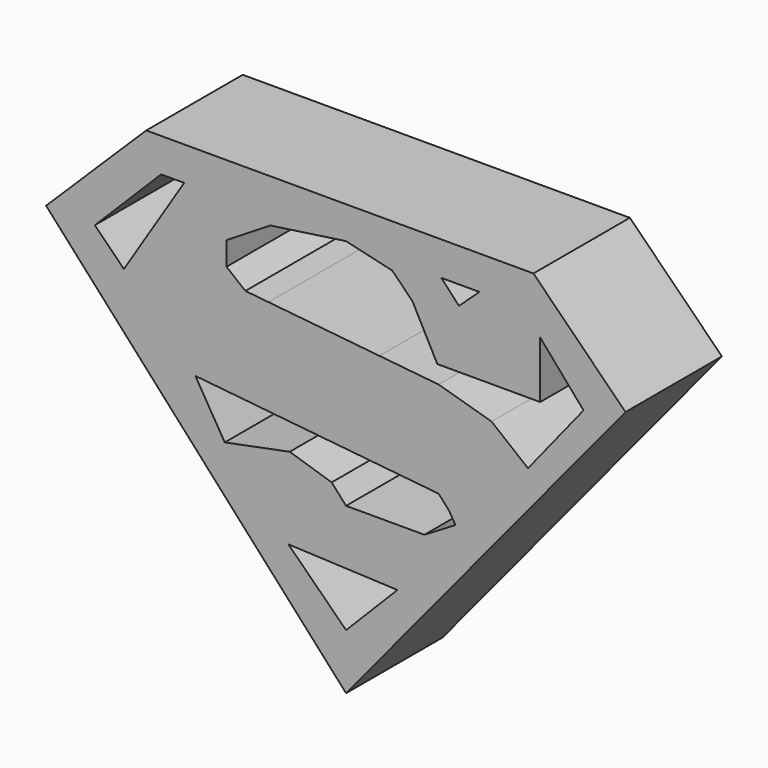
from build123d import *

# Parameters (mm, degrees)
F1_DEPTH = 25.4


with BuildPart() as f1:
    # F0 (on Front) → F1 (new body)
    with BuildSketch(Plane.XZ):
        Polygon((39.478663, 49.774494), (-42.100161, 49.774494), (-63.207971, 28.951926), (0, -40.932029), (58.875032, 30.378129), align=None)
        Polygon((-25.556205, -2.709786), (-31.747603, 7.609214), (19.511815, 2.424546), (21.704745, 0), (23.049638, -2.241488), (16.5084, -6.16623), (0, -6.16623), (-3.038761, -2.806516), (-11.864654, 0), align=None, mode=Mode.SUBTRACT)
        Polygon((0, -29.237164), (-12.149894, -17.257059), (10.827228, -18.256486), align=None, mode=Mode.SUBTRACT)
        Polygon((-52.939307, 28.666684), (-38.962513, 42.643476), (-34.113426, 42.643476), (-46.806633, 22.53401), align=None, mode=Mode.SUBTRACT)
        Polygon((40.904865, 26.38476), (40.904865, 38.364865), (50.032564, 27.810963), (38.3377, 13.26369), (30.666579, 19.430669), (19.511815, 22.676632), (7.027925, 23.939323), (-16.350178, 26.303917), (-21.210515, 26.795519), (-25.183988, 29.989879), (-25.183988, 34.941979), (-15.973477, 40.646795), (0, 42.928718), (9.698181, 40.646795), (13.976795, 36.368181), (19.226575, 26.38476), align=None, mode=Mode.SUBTRACT)
        Polygon((23.79043, 38.650107), (20.082297, 42.643476), (28.090977, 42.643476), align=None, mode=Mode.SUBTRACT)
    extrude(amount=F1_DEPTH)


solid = f1.part
